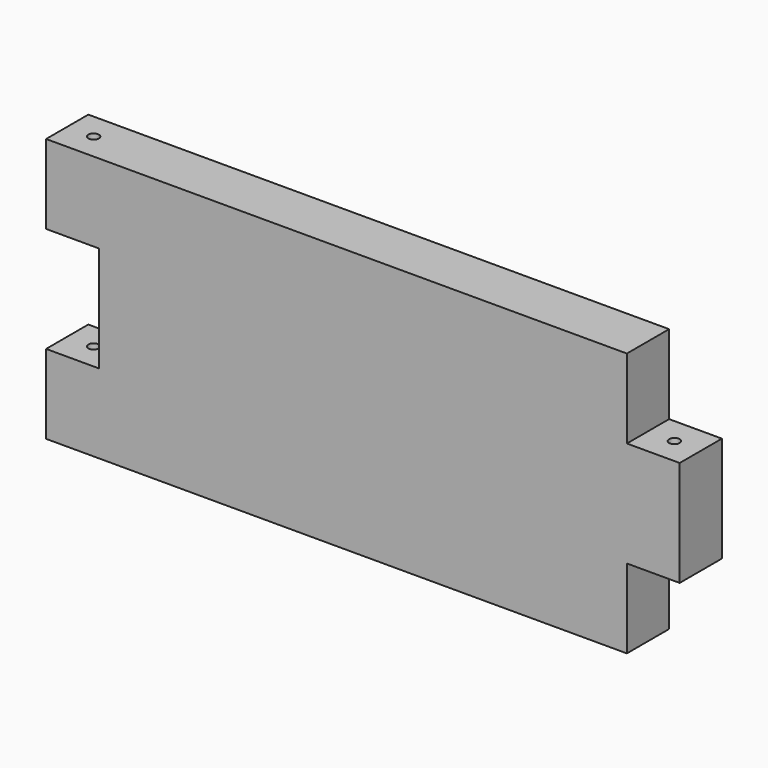
from build123d import *

# Parameters (mm, degrees)
F1_DEPTH = 10
F2_R     = 1
F3_DEPTH = 52.9
F4_R     = 1
F5_DEPTH = 41.9


with BuildPart() as f1:
    # F0 (on Front) → F1 (new body)
    with BuildSketch(Plane.XZ):
        Polygon((-60, -10), (-60, -25), (50, -25), (50, -10), (60, -10), (60, 10), (50, 10), (50, 25), (-60, 25), (-60, 10), (-50, 10), (-50, -10), align=None)
    extrude(amount=F1_DEPTH)

    # F2 (on face) → F3 (cut)
    with BuildSketch(Plane(origin=(0, 0, -25), x_dir=(1, 0, 0), z_dir=(0, 0, -1))):
        with Locations((-55, 5)):
            Circle(F2_R)
    extrude(amount=-F3_DEPTH, mode=Mode.SUBTRACT)

    # F4 (on face) → F5 (cut)
    with BuildSketch(Plane(origin=(0, 0, -10), x_dir=(1, 0, 0), z_dir=(0, 0, -1))):
        with Locations((55, 5)):
            Circle(F4_R)
    extrude(amount=-F5_DEPTH, mode=Mode.SUBTRACT)


solid = f1.part
